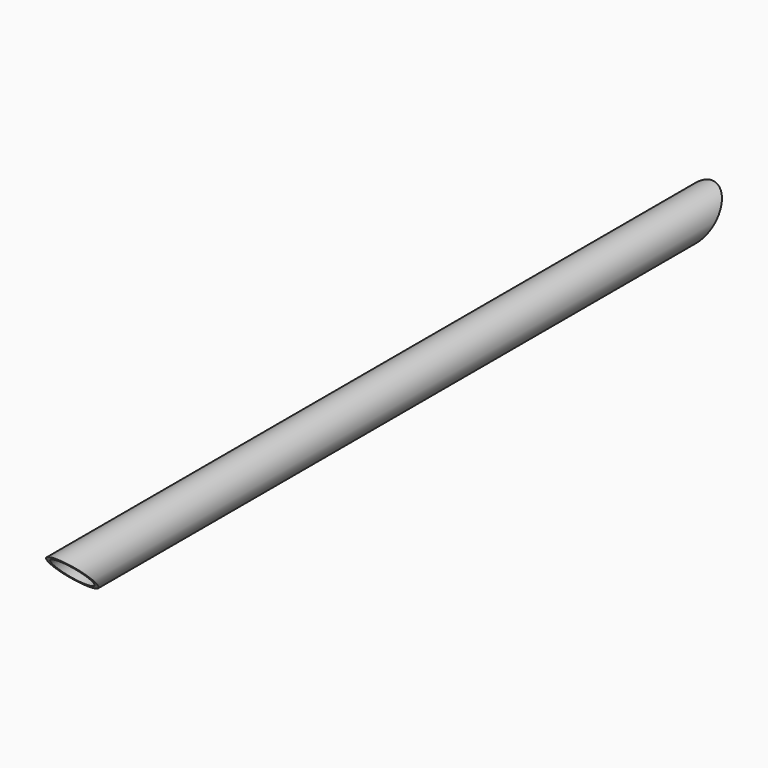
from build123d import *

# Parameters (mm, degrees)
F0_R     = 24.13
F0_R_2   = 20.447
F1_DEPTH = 508
F3_DEPTH = 76.2


with BuildPart() as f1:
    # F0 (on Front) → F1 (new body, symmetric)
    with BuildSketch(Plane.XZ):
        Circle(F0_R)
        Circle(F0_R_2, mode=Mode.SUBTRACT)
    extrude(amount=F1_DEPTH, both=True)

    # F2 (on Right) → F3 (cut, symmetric)
    with BuildSketch(Plane.YZ):
        Polygon((-378.943312, -78.256688), (-457.2, 0), (-506.149129, 48.949129), (-548.543801, 25.520511), (-532.924696, -70.425279), align=None)
        Polygon((532.924696, -70.425279), (548.543801, 25.520511), (506.149129, 48.949129), (457.2, 0), (378.943312, -78.256688), align=None)
    extrude(amount=F3_DEPTH, both=True, mode=Mode.SUBTRACT)


solid = f1.part
